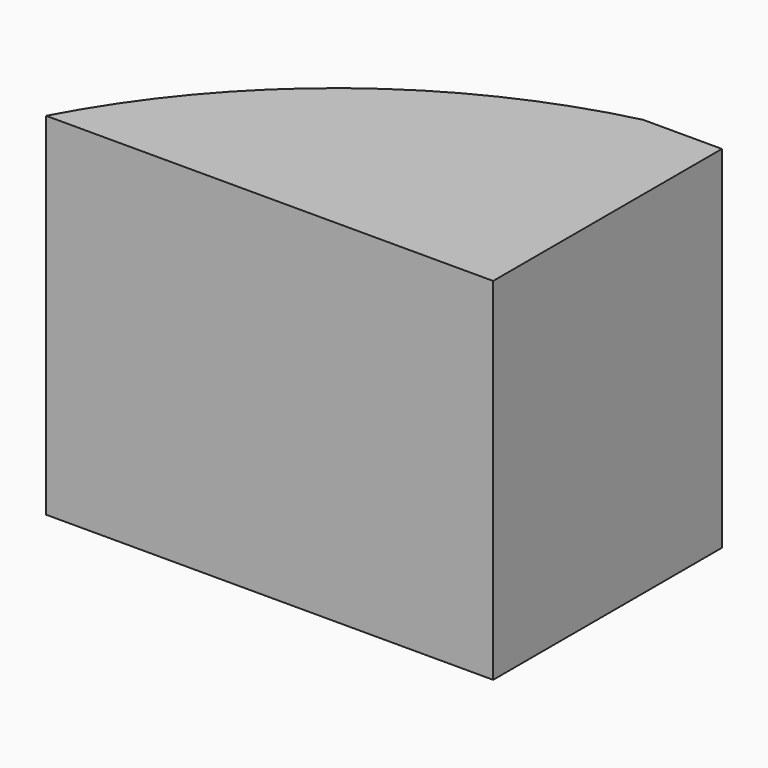
from build123d import *

# Parameters (mm, degrees)
F1_DEPTH = 88.9
F3_W     = 72.389998
F3_H     = 88.9
F4_DEPTH = 20
F5_W     = 15
F5_H     = 76.5
F6_DEPTH = 40
F7_W     = 10.8
F7_H     = 12.7
F7_W_2   = 40
F8_DEPTH = 110.672824


with BuildPart() as f1:
    # F0 (on Top) → F1 (new body)
    with BuildSketch(Plane.XY):
        with BuildLine():
            ThreePointArc((43.122277, 40.17818), (-11.239462, 13.991304), (-50.049547, -32.211818))
            Line((-50.049547, -32.211818), (43.122277, -32.211818))
            Line((43.122277, -32.211818), (43.122277, 40.17818))
        make_face()
    extrude(amount=F1_DEPTH)

    # F3 (on face) → F4 (join)
    with BuildSketch(Plane.YZ.offset(43.122277)):
        with Locations((3.983181, 44.45)):
            Rectangle(F3_W, F3_H)
    extrude(amount=F4_DEPTH)

    # F5 (on face) → F6 (cut)
    with BuildSketch(Plane(origin=(0, 40.17818, 0), x_dir=(-1, 0, 0), z_dir=(0, 1, 0))):
        with Locations((-53.122277, 44.45)):
            Rectangle(F5_W, F5_H)
    extrude(amount=-F6_DEPTH, mode=Mode.SUBTRACT)

    # F7 (on face) → F8 (cut, through all)
    with BuildSketch(Plane(origin=(60.622277, 0, 0), x_dir=(0, -1, 0), z_dir=(-1, 0, 0))):
        with Locations((5.22182, 15.852)):
            Rectangle(F7_W, F7_H)
        with Locations((5.22182, 34.902)):
            Rectangle(F7_W, F7_H)
        with Locations((5.22182, 53.952)):
            Rectangle(F7_W, F7_H)
        with Locations((5.22182, 73.048)):
            Rectangle(F7_W, F7_H)
        with Locations((-20.17818, 15.852)):
            Rectangle(F7_W_2, F7_H)
        with Locations((-20.17818, 34.902)):
            Rectangle(F7_W_2, F7_H)
        with Locations((-20.17818, 53.952)):
            Rectangle(F7_W_2, F7_H)
        with Locations((-20.17818, 73.048)):
            Rectangle(F7_W_2, F7_H)
    extrude(amount=F8_DEPTH, mode=Mode.SUBTRACT)


solid = f1.part
